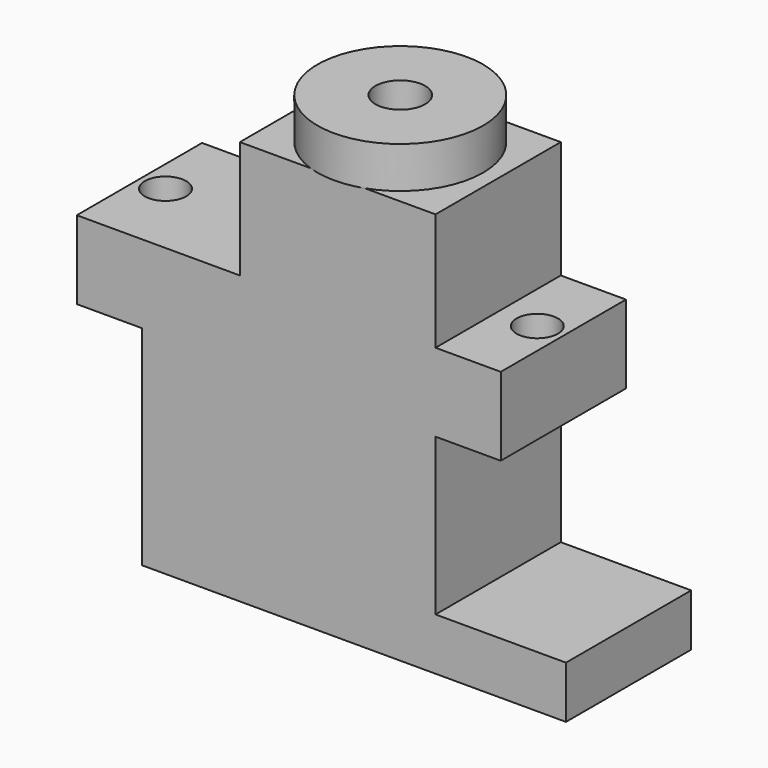
from build123d import *

# Parameters (mm, degrees)
F0_W     = 10
F0_H     = 4
F0_W_2   = 15
F0_H_2   = 9
F1_DEPTH = 12
F2_R     = 1.5875
F3_DEPTH = 10
F4_R     = 6.35
F4_R_2   = 1.905
F5_DEPTH = 3.175


with BuildPart() as f1:
    # F0 (on Front) → F1 (new body)
    with BuildSketch(Plane.XZ):
        Polygon((0, 16), (0, 0), (22.5, 0), (22.5, 4), (22.5, 16), align=None)
        with Locations((27.5, 2)):
            Rectangle(F0_W, F0_H)
        Polygon((-5, 16), (0, 16), (22.5, 16), (27.5, 16), (27.5, 22), (22.5, 22), (7.5, 22), (-5, 22), align=None)
        with Locations((15, 26.5)):
            Rectangle(F0_W_2, F0_H_2)
    extrude(amount=F1_DEPTH)

    # F2 (on face) → F3 (cut)
    with BuildSketch(Plane.XY.offset(22)):
        with Locations((-3, -6)):
            Circle(F2_R)
        with Locations((25.5, -6)):
            Circle(F2_R)
    extrude(amount=-F3_DEPTH, mode=Mode.SUBTRACT)

    # F4 (on face) → F5 (join)
    with BuildSketch(Plane.XY.offset(31)):
        with Locations((15, -6)):
            Circle(F4_R)
        with Locations((15, -6)):
            Circle(F4_R_2, mode=Mode.SUBTRACT)
    extrude(amount=F5_DEPTH)


solid = f1.part
